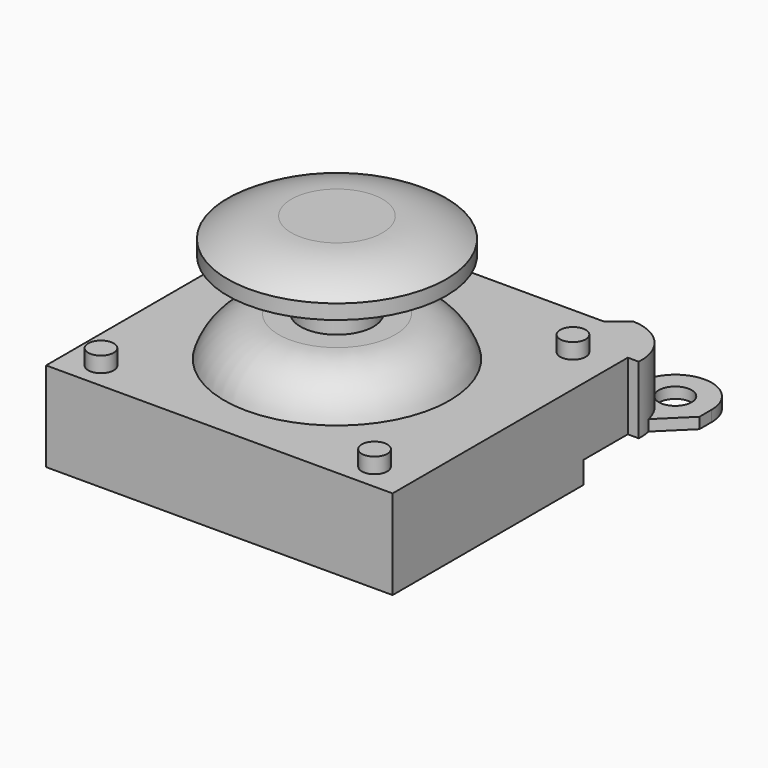
from build123d import *

# Parameters (mm, degrees)
F1_DEPTH  = 4.91
F2_R      = 0.7
F3_DEPTH  = 0.85
F6_DEPTH  = 0.6
F7_R      = 0.9
F8_DEPTH  = 0.6
F11_R     = 2
F12_DEPTH = 4
F15_W     = 5.8206040412
F15_H     = 6.0758944601
F16_DEPTH = 1.21


with BuildPart() as f1:
    # F0 (on Top) → F1 (new body)
    with BuildSketch(Plane.XY):
        with BuildLine():
            Line((-9.35, 9.3296706912), (-9.35, -8.25))
            Line((-9.35, -8.25), (9.65, -8.25))
            Line((9.65, -8.25), (9.65, 7.8709153458))
            Line((9.65, 7.8709153458), (10.25, 7.8709153458))
            ThreePointArc((10.25, 7.8709153458), (9.5849645406, 9.7831678774), (7.75, 10.6386718467))
            Line((7.75, 10.6386718467), (6.75, 9.85))
            Line((6.75, 9.85), (-6.6136931828, 9.85))
            ThreePointArc((-6.6136931828, 9.85), (-7.8763800086, 9.0352078731), (-9.35, 9.3296706912))
        make_face()
    extrude(amount=-F1_DEPTH)

    # F2 (on face) → F3 (join)
    with BuildSketch(Plane.XY):
        with Locations((-7.5, -6.8)):
            Circle(F2_R)
        with Locations((7.5, -6.8)):
            Circle(F2_R)
        with Locations((-7.5, 6.8)):
            Circle(F2_R)
        with Locations((7.5, 6.8)):
            Circle(F2_R)
    extrude(amount=F3_DEPTH)

    # F5 (on offset) → F6 (join)
    with BuildSketch(Plane.XY.offset(-3.1)):
        with BuildLine():
            Line((-10.25, 10.1498657733), (-9.0825001077, 8.6487947561))
            Line((-9.0825001077, 8.6487947561), (-6.25, 8.6487947561))
            Line((-6.25, 8.6487947561), (-6.25, 11))
            ThreePointArc((-6.25, 11), (-8.25, 13), (-10.25, 11))
            Line((-10.25, 11), (-10.25, 10.1498657733))
        make_face()
        with BuildLine():
            Line((7.75, 11), (7.75, 8.4319217131))
            Line((7.75, 8.4319217131), (9.9920006469, 8.4319217131))
            Line((9.9920006469, 8.4319217131), (11.75, 10.1568773389))
            Line((11.75, 10.1568773389), (11.75, 11))
            ThreePointArc((11.75, 11), (9.75, 13), (7.75, 11))
        make_face()
    extrude(amount=-F6_DEPTH)

    # F7 (on face) → F8 (cut, through all)
    with BuildSketch(Plane.XY.offset(-3.1)):
        with Locations((-8.25, 11)):
            Circle(F7_R)
        with Locations((9.75, 11)):
            Circle(F7_R)
    extrude(amount=-F8_DEPTH, mode=Mode.SUBTRACT)

    # F9 (on Front) → F10 (revolve)
    with BuildSketch(Plane.XZ):
        with BuildLine():
            Line((3.1952585559, 2.2070568521), (0, 2.2070568521))
            Line((0, 2.2070568521), (0, 0))
            Line((0, 0), (6.177762989, 0))
            ThreePointArc((6.177762989, 0), (5.0504157353, 1.5952910936), (3.1952585559, 2.2070568521))
        make_face()
    revolve(axis=Axis((0, 0, 1.103528426), (0, 0, -1)))

    # F11 (on face) → F12 (cut)
    with BuildSketch(Plane.XY.offset(2.2070568521)):
        Circle(F11_R)
    extrude(amount=-F12_DEPTH, mode=Mode.SUBTRACT)

    # F13 (on Front) → F14 (revolve)
    with BuildSketch(Plane.XZ):
        with BuildLine():
            Line((0, 6.9), (0, -2))
            Line((0, -2), (2, -2))
            Line((2, -2), (2, 5))
            Line((2, 5), (6, 5))
            Line((6, 5), (6, 5.8))
            ThreePointArc((6, 5.8), (4.3343936328, 6.6185251952), (2.5, 6.9))
            Line((2.5, 6.9), (0, 6.9))
        make_face()
    revolve(axis=Axis((0, 0, 2.45), (0, 0, 1)))

    # F15 (on face) → F16 (cut, through all)
    with BuildSketch(Plane(origin=(0, 0, -4.91), x_dir=(1, 0, 0), z_dir=(0, 0, -1))):
        with Locations((7.839627564, -7.8769084066)):
            Rectangle(F15_W, F15_H)
    extrude(amount=-F16_DEPTH, mode=Mode.SUBTRACT)


solid = f1.part
